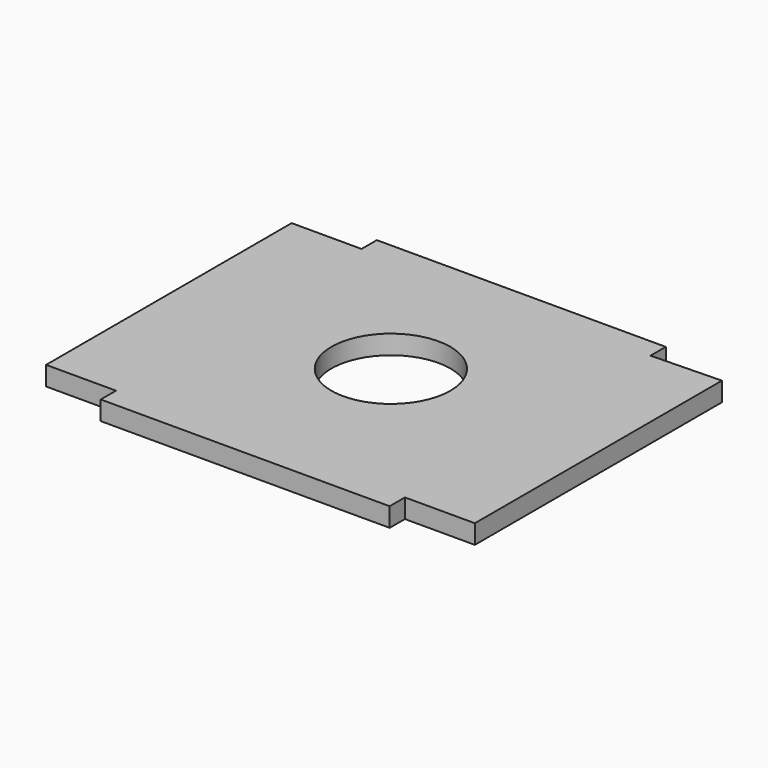
from build123d import *

# Parameters (mm, degrees)
F0_R     = 13.872637
F1_DEPTH = 4.45


with BuildPart() as f1:
    # F0 (on Top) → F1 (new body)
    with BuildSketch(Plane.XY):
        Polygon((50, -33.5685), (50, -16.64242), (50, 16.64242), (50, 33.5685), (50, 34.008425), (33.6925, 33.5685), (33.6925, 38.0185), (-33.6925, 38.0185), (-33.6925, 33.5685), (-50, 33.5685), (-50, 16.64242), (-50, -16.64242), (-50, -33.5685), (-50, -38.0185), (-33.6925, -38.0185), (-33.6925, -42.4685), (33.6925, -42.4685), (33.6925, -38.0185), (50, -38.0185), align=None)
        Circle(F0_R, mode=Mode.SUBTRACT)
    extrude(amount=F1_DEPTH)


solid = f1.part
